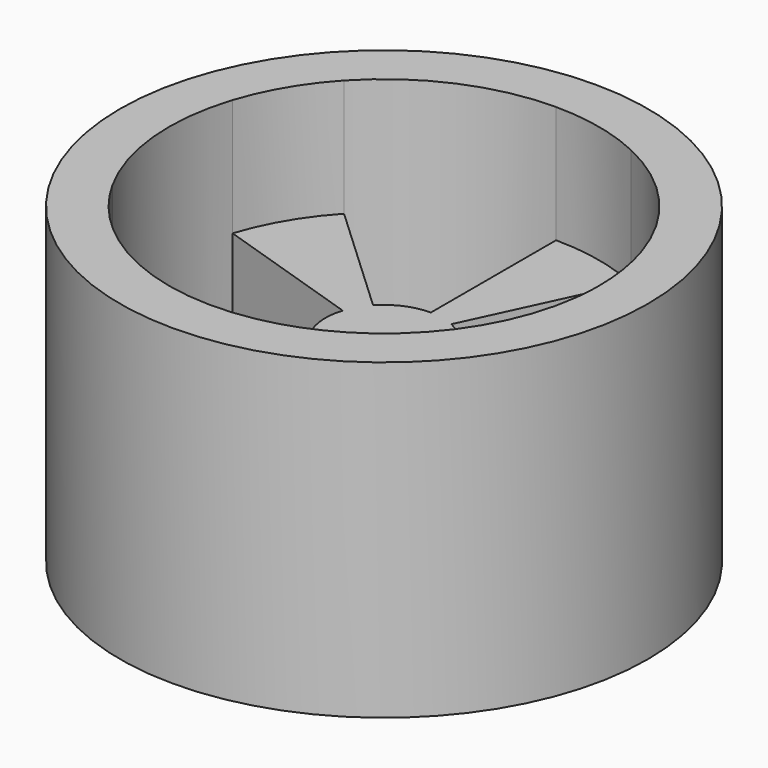
from build123d import *

# Parameters (mm, degrees)
F0_R     = 6.75
F1_DEPTH = 8
F2_DEPTH = 5


with BuildPart() as f1:
    # F0 (on Top) → F1 (new body)
    with BuildSketch(Plane.XY):
        Circle(F0_R)
        with BuildLine():
            ThreePointArc((5.230811, 1.699593), (5.432286, 0.86039), (5.5, 0))
            ThreePointArc((5.5, 0), (5.489741, -0.335767), (5.459004, -0.670281))
            ThreePointArc((5.459004, -0.670281), (4.73896, -2.791461), (3.232819, -4.449593))
            ThreePointArc((3.232819, -4.449593), (2.19312, -5.04383), (1.049449, -5.39895))
            ThreePointArc((1.049449, -5.39895), (-1.190418, -5.369628), (-3.232819, -4.449593))
            ThreePointArc((-3.232819, -4.449593), (-4.119256, -3.64441), (-4.810408, -2.666453))
            ThreePointArc((-4.810408, -2.666453), (-5.474679, -0.527152), (-5.230811, 1.699593))
            ThreePointArc((-5.230811, 1.699593), (-4.73896, 2.791461), (-4.022445, 3.750991))
            ThreePointArc((-4.022445, 3.750991), (-2.19312, 5.04383), (0, 5.5))
            ThreePointArc((0, 5.5), (1.190418, 5.369628), (2.3244, 4.984693))
            ThreePointArc((2.3244, 4.984693), (4.119256, 3.64441), (5.230811, 1.699593))
        make_face(mode=Mode.SUBTRACT)
    extrude(amount=F1_DEPTH)

    # F0 (on Top) → F2 (join)
    with BuildSketch(Plane.XY):
        Circle(F0_R)
        with BuildLine():
            ThreePointArc((5.230811, 1.699593), (5.432286, 0.86039), (5.5, 0))
            ThreePointArc((5.5, 0), (5.489741, -0.335767), (5.459004, -0.670281))
            ThreePointArc((5.459004, -0.670281), (4.73896, -2.791461), (3.232819, -4.449593))
            ThreePointArc((3.232819, -4.449593), (2.19312, -5.04383), (1.049449, -5.39895))
            ThreePointArc((1.049449, -5.39895), (-1.190418, -5.369628), (-3.232819, -4.449593))
            ThreePointArc((-3.232819, -4.449593), (-4.119256, -3.64441), (-4.810408, -2.666453))
            ThreePointArc((-4.810408, -2.666453), (-5.474679, -0.527152), (-5.230811, 1.699593))
            ThreePointArc((-5.230811, 1.699593), (-4.73896, 2.791461), (-4.022445, 3.750991))
            ThreePointArc((-4.022445, 3.750991), (-2.19312, 5.04383), (0, 5.5))
            ThreePointArc((0, 5.5), (1.190418, 5.369628), (2.3244, 4.984693))
            ThreePointArc((2.3244, 4.984693), (4.119256, 3.64441), (5.230811, 1.699593))
        make_face(mode=Mode.SUBTRACT)
        with BuildLine():
            Line((0.633927, 1.359462), (2.3244, 4.984693))
            ThreePointArc((2.3244, 4.984693), (1.190418, 5.369628), (0, 5.5))
            Line((0, 5.5), (0, 1.5))
            ThreePointArc((0, 1.5), (0.324659, 1.464444), (0.633927, 1.359462))
        make_face()
        with BuildLine():
            Line((-1.097031, 1.022998), (-4.022445, 3.750991))
            ThreePointArc((-4.022445, 3.750991), (-4.73896, 2.791461), (-5.230811, 1.699593))
            Line((-5.230811, 1.699593), (-1.426585, 0.463525))
            ThreePointArc((-1.426585, 0.463525), (-1.292444, 0.761308), (-1.097031, 1.022998))
        make_face()
        with BuildLine():
            ThreePointArc((-4.810408, -2.666453), (-4.119256, -3.64441), (-3.232819, -4.449593))
            Line((-3.232819, -4.449593), (-0.881678, -1.213525))
            ThreePointArc((-0.881678, -1.213525), (-1.123434, -0.99393), (-1.31193, -0.727214))
            Line((-1.31193, -0.727214), (-4.810408, -2.666453))
        make_face()
        with BuildLine():
            ThreePointArc((1.049449, -5.39895), (2.19312, -5.04383), (3.232819, -4.449593))
            Line((3.232819, -4.449593), (0.881678, -1.213525))
            ThreePointArc((0.881678, -1.213525), (0.598124, -1.37559), (0.286213, -1.472441))
            Line((0.286213, -1.472441), (1.049449, -5.39895))
        make_face()
        with BuildLine():
            ThreePointArc((5.459004, -0.670281), (5.489741, -0.335767), (5.5, 0))
            ThreePointArc((5.5, 0), (5.432286, 0.86039), (5.230811, 1.699593))
            Line((5.230811, 1.699593), (1.426585, 0.463525))
            ThreePointArc((1.426585, 0.463525), (1.481533, 0.234652), (1.5, 0))
            ThreePointArc((1.5, 0), (1.497202, -0.091573), (1.488819, -0.182804))
            Line((1.488819, -0.182804), (5.459004, -0.670281))
        make_face()
        with BuildLine():
            ThreePointArc((1.5, 0), (1.481533, 0.234652), (1.426585, 0.463525))
            ThreePointArc((1.426585, 0.463525), (1.123434, 0.99393), (0.633927, 1.359462))
            ThreePointArc((0.633927, 1.359462), (0.324659, 1.464444), (0, 1.5))
            ThreePointArc((0, 1.5), (-0.598124, 1.37559), (-1.097031, 1.022998))
            ThreePointArc((-1.097031, 1.022998), (-1.292444, 0.761308), (-1.426585, 0.463525))
            ThreePointArc((-1.426585, 0.463525), (-1.493094, -0.143769), (-1.31193, -0.727214))
            ThreePointArc((-1.31193, -0.727214), (-1.123434, -0.99393), (-0.881678, -1.213525))
            ThreePointArc((-0.881678, -1.213525), (-0.324659, -1.464444), (0.286213, -1.472441))
            ThreePointArc((0.286213, -1.472441), (0.598124, -1.37559), (0.881678, -1.213525))
            ThreePointArc((0.881678, -1.213525), (1.292444, -0.761308), (1.488819, -0.182804))
            ThreePointArc((1.488819, -0.182804), (1.497202, -0.091573), (1.5, 0))
        make_face()
    extrude(amount=F2_DEPTH)


solid = f1.part
